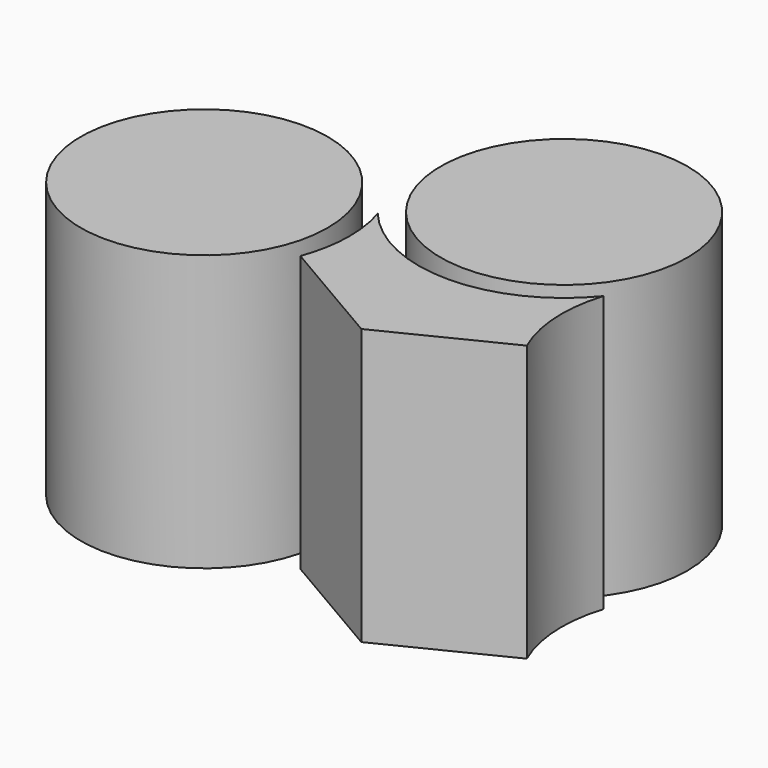
from build123d import *

# Parameters (mm, degrees)
F0_R     = 11.2
F1_DEPTH = 25


with BuildPart() as f1:
    # F0 (on Top) → F1 (new body)
    with BuildSketch(Plane.XY):
        with Locations((-22.746025, -12.370082)):
            Circle(F0_R)
        with BuildLine():
            ThreePointArc((10.245656, -8.322652), (0.081631, -13.199748), (-10.141937, -8.448735))
            ThreePointArc((-10.141937, -8.448735), (-9.695853, -10.386898), (-9.546025, -12.370082))
            ThreePointArc((-9.546025, -12.370082), (-9.751724, -14.69132), (-10.36241, -16.940213))
            Line((-10.36241, -16.940213), (0, -22.991696))
            Line((0, -22.991696), (10.750493, -17.660007))
            ThreePointArc((10.750493, -17.660007), (9.643541, -13.037531), (10.245656, -8.322652))
        make_face()
        Circle(F0_R)
    extrude(amount=F1_DEPTH)


solid = f1.part
